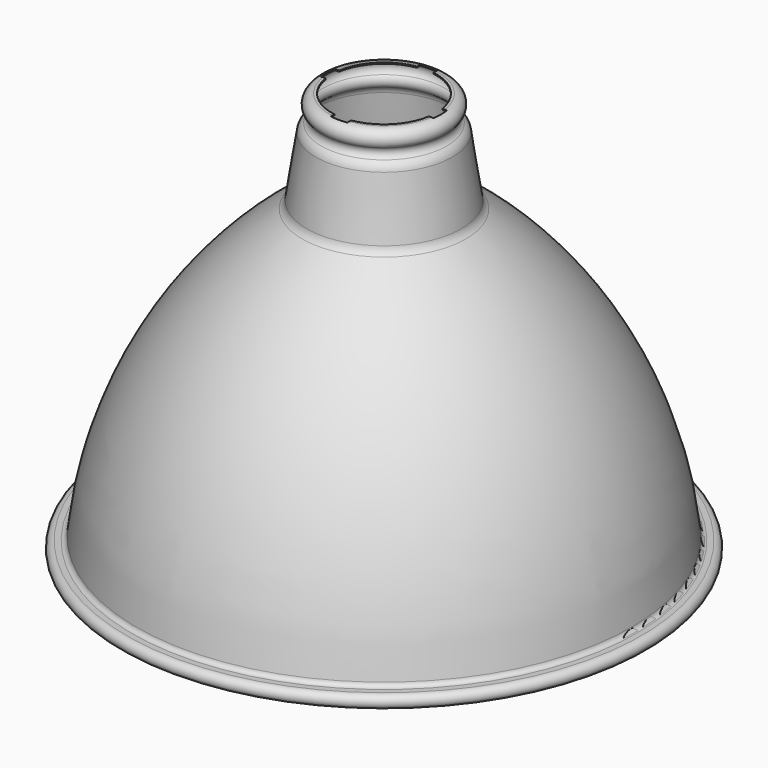
from build123d import *

# Parameters (mm, degrees)
F0_W     = 1.1385781698
F0_H     = 0.4952198267
F3_DEPTH = 177.001


with BuildPart() as f1:
    # F0 (on Right) → F1 (revolve)
    with BuildSketch(Plane.YZ):
        with BuildLine():
            ThreePointArc((27.3406048806, 33.2242180528), (26.0202083449, 35.2712863637), (26.8138374804, 37.5743470396))
            ThreePointArc((26.8138374804, 37.5743470396), (27.6899213279, 41.9992628373), (23.9385781698, 44.504223363))
            Line((23.9385781698, 44.504223363), (23.9385781698, 44.0090035363))
            ThreePointArc((23.9385781698, 44.0090035363), (27.2325102078, 41.8094794241), (26.4632495639, 37.9241052268))
            ThreePointArc((26.4632495639, 37.9241052268), (25.5285798636, 35.211753909), (27.083631939, 32.8008888853))
            ThreePointArc((27.083631939, 32.8008888853), (28.4931221916, 31.4505940128), (29.1991146414, 29.6308320297))
            Line((29.1991146414, 29.6308320297), (33.195592094, 3.4890509514))
            ThreePointArc((33.195592094, 3.4890509514), (33.9248979684, 1.4767699692), (35.3676517093, -0.1042497817))
            ThreePointArc((35.3676517093, -0.1042497817), (84.4586299819, -55.0762512585), (107.3221560228, -125.1412515876))
            ThreePointArc((107.3221560228, -125.1412515876), (108.1366911322, -126.7282426403), (109.8026586532, -127.3658634245))
            Line((109.8026586532, -127.3658634245), (112.1874334804, -127.3658634245))
            ThreePointArc((112.1874334804, -127.3658634245), (114.5047801733, -129.6832101174), (112.1874334804, -132.0005568103))
            Line((112.1874334804, -132.0005568103), (112.1874334804, -132.495776637))
            ThreePointArc((112.1874334804, -132.495776637), (115, -129.6832101174), (112.1874334804, -126.8706435978))
            Line((112.1874334804, -126.8706435978), (109.8026586532, -126.8706435978))
            ThreePointArc((109.8026586532, -126.8706435978), (108.4673313981, -126.3595697618), (107.8144549656, -125.0875447197))
            ThreePointArc((107.8144549656, -125.0875447197), (84.8878527694, -54.8292482717), (35.6614417483, 0.2944105873))
            ThreePointArc((35.6614417483, 0.2944105873), (34.3487065107, 1.7329515381), (33.6851244362, 3.5638891945))
            Line((33.6851244362, 3.5638891945), (29.6886469837, 29.7056702729))
            ThreePointArc((29.6886469837, 29.7056702729), (28.9050433197, 31.7254824647), (27.3406048806, 33.2242180528))
        make_face()
        with Locations((23.3692890849, 44.2566134496)):
            Rectangle(F0_W, F0_H)
    revolve(axis=Axis((0, 0, -51.0734710842), (0, 0, -1)))

    # F2 (on face) → F3 (cut, through all)
    with BuildSketch(Plane.XY.offset(44.504223363)):
        with BuildLine():
            Line((-22.5059436594, 3.65), (-23.6586775791, 3.65))
            ThreePointArc((-23.6586775791, 3.65), (-23.9385781698, 0), (-23.6586775791, -3.65))
            Line((-23.6586775791, -3.65), (-22.5059436594, -3.65))
            ThreePointArc((-22.5059436594, -3.65), (-22.8, 0), (-22.5059436594, 3.65))
        make_face()
        with BuildLine():
            Line((-23.6586775791, 3.65), (-24.4524266957, 3.65))
            ThreePointArc((-24.4524266957, 3.65), (-24.7233426402, 0), (-24.4524266957, -3.65))
            Line((-24.4524266957, -3.65), (-23.6586775791, -3.65))
            ThreePointArc((-23.6586775791, -3.65), (-23.9385781698, 0), (-23.6586775791, 3.65))
        make_face()
        with BuildLine():
            Line((3.65, 22.5059436594), (3.65, 23.6586775791))
            ThreePointArc((3.65, 23.6586775791), (0, 23.9385781698), (-3.65, 23.6586775791))
            Line((-3.65, 23.6586775791), (-3.65, 22.5059436594))
            ThreePointArc((-3.65, 22.5059436594), (0, 22.8), (3.65, 22.5059436594))
        make_face()
        with BuildLine():
            Line((3.65, 23.6586775791), (3.65, 24.4524266957))
            ThreePointArc((3.65, 24.4524266957), (0, 24.7233426402), (-3.65, 24.4524266957))
            Line((-3.65, 24.4524266957), (-3.65, 23.6586775791))
            ThreePointArc((-3.65, 23.6586775791), (0, 23.9385781698), (3.65, 23.6586775791))
        make_face()
        with BuildLine():
            ThreePointArc((23.9385781698, 0), (23.8685004495, 1.8303581849), (23.6586775791, 3.65))
            Line((23.6586775791, 3.65), (22.5059436594, 3.65))
            ThreePointArc((22.5059436594, 3.65), (22.7263670154, 1.8309129643), (22.8, 0))
            ThreePointArc((22.8, 0), (22.7263670154, -1.8309129643), (22.5059436594, -3.65))
            Line((22.5059436594, -3.65), (23.6586775791, -3.65))
            ThreePointArc((23.6586775791, -3.65), (23.8685004495, -1.8303581849), (23.9385781698, 0))
        make_face()
        with BuildLine():
            ThreePointArc((24.4524266957, -3.65), (24.6555206281, -1.8300201808), (24.7233426402, 0))
            ThreePointArc((24.7233426402, 0), (24.6555206281, 1.8300201808), (24.4524266957, 3.65))
            Line((24.4524266957, 3.65), (23.6586775791, 3.65))
            ThreePointArc((23.6586775791, 3.65), (23.8685004495, 1.8303581849), (23.9385781698, 0))
            ThreePointArc((23.9385781698, 0), (23.8685004495, -1.8303581849), (23.6586775791, -3.65))
            Line((23.6586775791, -3.65), (24.4524266957, -3.65))
        make_face()
        with BuildLine():
            ThreePointArc((-3.65, -23.6586775791), (0, -23.9385781698), (3.65, -23.6586775791))
            Line((3.65, -23.6586775791), (3.65, -22.5059436594))
            ThreePointArc((3.65, -22.5059436594), (0, -22.8), (-3.65, -22.5059436594))
            Line((-3.65, -22.5059436594), (-3.65, -23.6586775791))
        make_face()
        with BuildLine():
            ThreePointArc((-3.65, -24.4524266957), (0, -24.7233426402), (3.65, -24.4524266957))
            Line((3.65, -24.4524266957), (3.65, -23.6586775791))
            ThreePointArc((3.65, -23.6586775791), (0, -23.9385781698), (-3.65, -23.6586775791))
            Line((-3.65, -23.6586775791), (-3.65, -24.4524266957))
        make_face()
    extrude(amount=-F3_DEPTH, mode=Mode.SUBTRACT)


solid = f1.part
